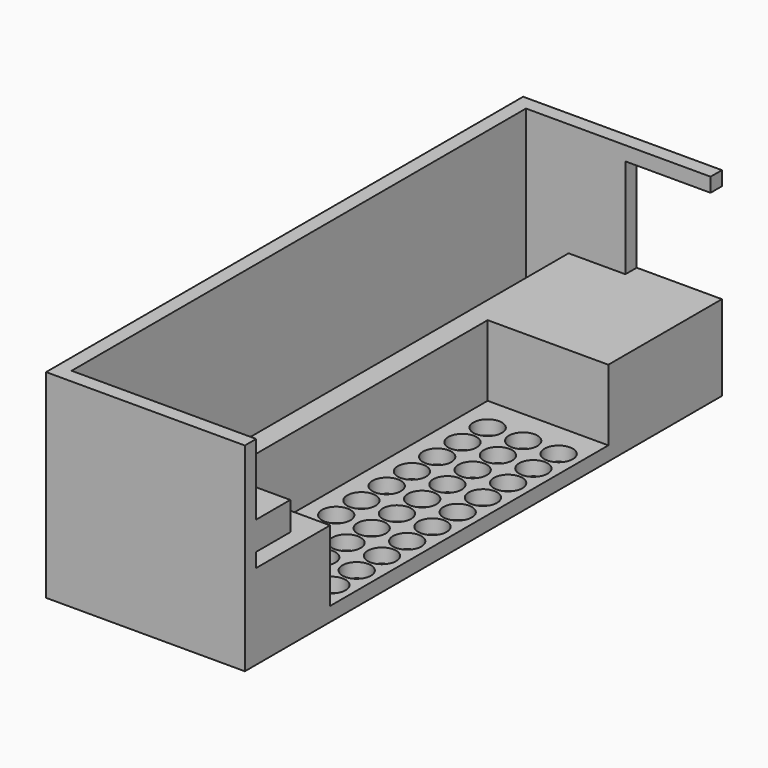
from build123d import *

# Parameters (mm, degrees)
SKETCH_W                         = 14
SKETCH_H                         = 42
PAD_DEPTH                        = 14
SKETCH001_W                      = 13
SKETCH001_H                      = 40
POCKET_DEPTH                     = 8
SKETCH002_W                      = 8.5
SKETCH002_H                      = 24.5
POCKET001_DEPTH                  = 5
SKETCH003_W                      = 6
SKETCH003_H                      = 7
POCKET002_DEPTH                  = 5
SKETCH004_R                      = 1
POCKET003_DEPTH                  = 5
SKETCH004_LINEARPATTERN_2_R      = 1
POCKET003_LINEARPATTERN_2_DEPTH  = 5
SKETCH004_LINEARPATTERN_3_R      = 1
POCKET003_LINEARPATTERN_3_DEPTH  = 5
SKETCH004_LINEARPATTERN_4_R      = 1
POCKET003_LINEARPATTERN_4_DEPTH  = 5
SKETCH004_LINEARPATTERN_5_R      = 1
POCKET003_LINEARPATTERN_5_DEPTH  = 5
SKETCH004_LINEARPATTERN_6_R      = 1
POCKET003_LINEARPATTERN_6_DEPTH  = 5
SKETCH004_LINEARPATTERN_7_R      = 1
POCKET003_LINEARPATTERN_7_DEPTH  = 5
SKETCH004_LINEARPATTERN_8_R      = 1
POCKET003_LINEARPATTERN_8_DEPTH  = 5
SKETCH004_LINEARPATTERN_9_R      = 1
POCKET003_LINEARPATTERN_9_DEPTH  = 5
SKETCH004_LINEARPATTERN_10_R     = 1
POCKET003_LINEARPATTERN_10_DEPTH = 5
LINEARPATTERN001_COUNT           = 3
LINEARPATTERN001_PITCH           = 2.5
SKETCH007_W                      = 4
SKETCH007_H                      = 2
PAD001_DEPTH                     = 3
SKETCH016_W                      = 3
SKETCH016_H                      = 40
POCKET007_DEPTH                  = 5


with BuildPart() as obj1:
    # Sketch → Pad (new body)
    with BuildSketch(Plane.XY):
        with Locations((7, 21)):
            Rectangle(SKETCH_W, SKETCH_H)
    extrude(amount=PAD_DEPTH)

    # Sketch001 (on Face6 of Pad) → Pocket (cut)
    with BuildSketch(Plane.XY.offset(14)):
        with Locations((6.5, 21)):
            Rectangle(SKETCH001_W, SKETCH001_H)
    extrude(amount=-POCKET_DEPTH, mode=Mode.SUBTRACT)

    # Sketch002 (on Face7 of Pocket) → Pocket001 (cut)
    with BuildSketch(Plane.XY.offset(6)):
        with Locations((4.25, 19.75)):
            Rectangle(SKETCH002_W, SKETCH002_H)
    extrude(amount=-POCKET001_DEPTH, mode=Mode.SUBTRACT)

    # Sketch003 (on Face6 of Pocket001) → Pocket002 (cut)
    with BuildSketch(Plane.XZ.offset(-41)):
        with Locations((3, 9.5)):
            Rectangle(SKETCH003_W, SKETCH003_H)
    extrude(amount=-POCKET002_DEPTH, mode=Mode.SUBTRACT)

    # Sketch004 (on Face16 of Pocket002) → Pocket003 (cut)
    with BuildSketch(Plane.XY.offset(1)):
        with Locations((6.5, 9.5)):
            Circle(SKETCH004_R)
    pocket003 = extrude(amount=-POCKET003_DEPTH, mode=Mode.SUBTRACT)

    # Sketch004 LinearPattern 2 → Pocket003 LinearPattern 2 (cut)
    with BuildSketch(Plane(origin=(0, 2.222222, 1), x_dir=(1, 0, 0), z_dir=(0, 0, 1))):
        with Locations((6.5, 9.5)):
            Circle(SKETCH004_LINEARPATTERN_2_R)
    pocket003_linearpattern_2 = extrude(amount=-POCKET003_LINEARPATTERN_2_DEPTH, mode=Mode.SUBTRACT)

    # Sketch004 LinearPattern 3 → Pocket003 LinearPattern 3 (cut)
    with BuildSketch(Plane(origin=(0, 4.444444, 1), x_dir=(1, 0, 0), z_dir=(0, 0, 1))):
        with Locations((6.5, 9.5)):
            Circle(SKETCH004_LINEARPATTERN_3_R)
    pocket003_linearpattern_3 = extrude(amount=-POCKET003_LINEARPATTERN_3_DEPTH, mode=Mode.SUBTRACT)

    # Sketch004 LinearPattern 4 → Pocket003 LinearPattern 4 (cut)
    with BuildSketch(Plane(origin=(0, 6.666667, 1), x_dir=(1, 0, 0), z_dir=(0, 0, 1))):
        with Locations((6.5, 9.5)):
            Circle(SKETCH004_LINEARPATTERN_4_R)
    pocket003_linearpattern_4 = extrude(amount=-POCKET003_LINEARPATTERN_4_DEPTH, mode=Mode.SUBTRACT)

    # Sketch004 LinearPattern 5 → Pocket003 LinearPattern 5 (cut)
    with BuildSketch(Plane(origin=(0, 8.888889, 1), x_dir=(1, 0, 0), z_dir=(0, 0, 1))):
        with Locations((6.5, 9.5)):
            Circle(SKETCH004_LINEARPATTERN_5_R)
    pocket003_linearpattern_5 = extrude(amount=-POCKET003_LINEARPATTERN_5_DEPTH, mode=Mode.SUBTRACT)

    # Sketch004 LinearPattern 6 → Pocket003 LinearPattern 6 (cut)
    with BuildSketch(Plane(origin=(0, 11.111111, 1), x_dir=(1, 0, 0), z_dir=(0, 0, 1))):
        with Locations((6.5, 9.5)):
            Circle(SKETCH004_LINEARPATTERN_6_R)
    pocket003_linearpattern_6 = extrude(amount=-POCKET003_LINEARPATTERN_6_DEPTH, mode=Mode.SUBTRACT)

    # Sketch004 LinearPattern 7 → Pocket003 LinearPattern 7 (cut)
    with BuildSketch(Plane(origin=(0, 13.333333, 1), x_dir=(1, 0, 0), z_dir=(0, 0, 1))):
        with Locations((6.5, 9.5)):
            Circle(SKETCH004_LINEARPATTERN_7_R)
    pocket003_linearpattern_7 = extrude(amount=-POCKET003_LINEARPATTERN_7_DEPTH, mode=Mode.SUBTRACT)

    # Sketch004 LinearPattern 8 → Pocket003 LinearPattern 8 (cut)
    with BuildSketch(Plane(origin=(0, 15.555556, 1), x_dir=(1, 0, 0), z_dir=(0, 0, 1))):
        with Locations((6.5, 9.5)):
            Circle(SKETCH004_LINEARPATTERN_8_R)
    pocket003_linearpattern_8 = extrude(amount=-POCKET003_LINEARPATTERN_8_DEPTH, mode=Mode.SUBTRACT)

    # Sketch004 LinearPattern 9 → Pocket003 LinearPattern 9 (cut)
    with BuildSketch(Plane(origin=(0, 17.777778, 1), x_dir=(1, 0, 0), z_dir=(0, 0, 1))):
        with Locations((6.5, 9.5)):
            Circle(SKETCH004_LINEARPATTERN_9_R)
    pocket003_linearpattern_9 = extrude(amount=-POCKET003_LINEARPATTERN_9_DEPTH, mode=Mode.SUBTRACT)

    # Sketch004 LinearPattern 10 → Pocket003 LinearPattern 10 (cut)
    with BuildSketch(Plane(origin=(0, 20, 1), x_dir=(1, 0, 0), z_dir=(0, 0, 1))):
        with Locations((6.5, 9.5)):
            Circle(SKETCH004_LINEARPATTERN_10_R)
    pocket003_linearpattern_10 = extrude(amount=-POCKET003_LINEARPATTERN_10_DEPTH, mode=Mode.SUBTRACT)

    # LinearPattern001: Pocket003, Pocket003 LinearPattern 2, Pocket003 LinearPattern 3, Pocket003 LinearPattern 4, Pocket003 LinearPattern 5, Pocket003 LinearPattern 6, Pocket003 LinearPattern 7, Pocket003 LinearPattern 8, Pocket003 LinearPattern 9, Pocket003 LinearPattern 10 ×3
    with Locations(*[(-i * LINEARPATTERN001_PITCH, 0, 0) for i in range(1, LINEARPATTERN001_COUNT)]):
        add(pocket003, mode=Mode.SUBTRACT)
        add(pocket003_linearpattern_2, mode=Mode.SUBTRACT)
        add(pocket003_linearpattern_3, mode=Mode.SUBTRACT)
        add(pocket003_linearpattern_4, mode=Mode.SUBTRACT)
        add(pocket003_linearpattern_5, mode=Mode.SUBTRACT)
        add(pocket003_linearpattern_6, mode=Mode.SUBTRACT)
        add(pocket003_linearpattern_7, mode=Mode.SUBTRACT)
        add(pocket003_linearpattern_8, mode=Mode.SUBTRACT)
        add(pocket003_linearpattern_9, mode=Mode.SUBTRACT)
        add(pocket003_linearpattern_10, mode=Mode.SUBTRACT)

    # Sketch007 → Pad001 (join)
    with BuildSketch(Plane(origin=(0, 1, 0), x_dir=(-1, 0, 0), z_dir=(0, 1, 0))):
        with Locations((-2, 8)):
            Rectangle(SKETCH007_W, SKETCH007_H)
    extrude(amount=PAD001_DEPTH)

    # Sketch016 (on Face44 of Pad001) → Pocket007 (cut)
    with BuildSketch(Plane.XY.offset(6)):
        with Locations((11.5, 21)):
            Rectangle(SKETCH016_W, SKETCH016_H)
    extrude(amount=-POCKET007_DEPTH, mode=Mode.SUBTRACT)


with BuildPart() as obj2:
    # Part__Mirroring: instance of obj1
    add(obj1.part.mirror(Plane(origin=(0, 0, 0), x_dir=(0, -1, 0), z_dir=(1, 0, 0))))


solid = obj2.part
